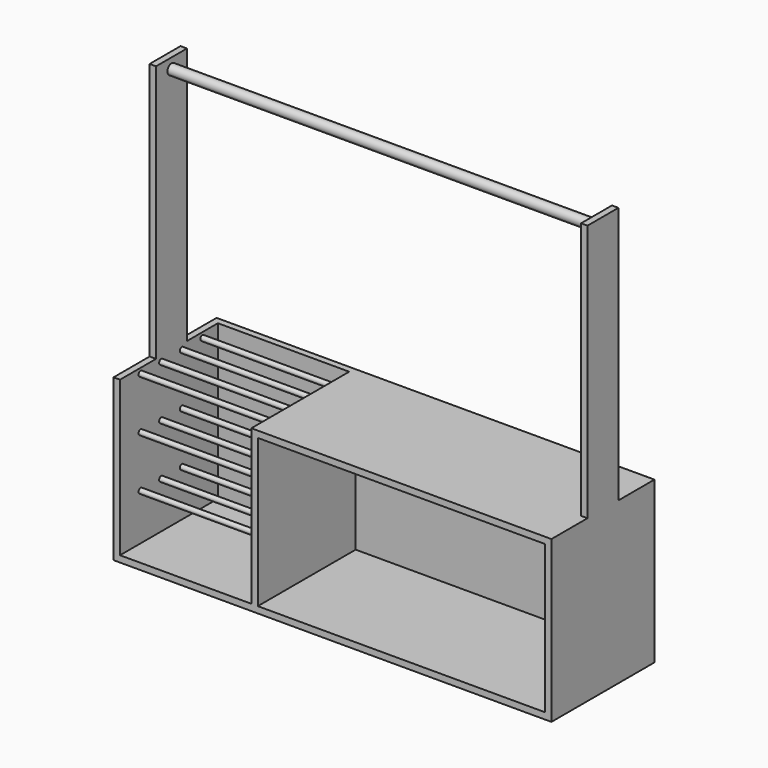
from build123d import *

# Parameters (mm, degrees)
F0_W      = 1700
F0_H      = 500
F1_DEPTH  = 25
F2_W      = 25
F2_H      = 500
F3_DEPTH  = 600
F6_W      = 1650
F6_H      = 25
F7_DEPTH  = 600
F8_W      = 25
F8_H      = 475
F9_DEPTH  = 600
F10_W     = 1165
F10_H     = 500
F11_DEPTH = 25
F12_R     = 10
F13_DEPTH = 510
F14_W     = 25
F14_H     = 150
F15_DEPTH = 1000
F16_W     = 25
F16_H     = 150
F17_DEPTH = 1000
F18_R     = 20
F19_DEPTH = 1650


with BuildPart() as f1:
    # F0 (on Top) → F1 (new body)
    with BuildSketch(Plane.XY):
        with Locations((850, 250)):
            Rectangle(F0_W, F0_H)
    extrude(amount=F1_DEPTH)

    # F2 (on face) → F3 (join)
    with BuildSketch(Plane.XY.offset(25)):
        with Locations((12.5, 250)):
            Rectangle(F2_W, F2_H)
    extrude(amount=F3_DEPTH)

    # F5: F1 across plane


with BuildPart() as f1_1:
    add(f1.part)
    add(f1.part.mirror(Plane.YZ.offset(850)))

    # F6 (on face) → F7 (join, through all)
    with BuildSketch(Plane.XY.offset(25)):
        with Locations((850, 487.5)):
            Rectangle(F6_W, F6_H)
    extrude(amount=F7_DEPTH)

    # F8 (on face) → F9 (join, through all)
    with BuildSketch(Plane.XY.offset(25)):
        with Locations((547.5, 237.5)):
            Rectangle(F8_W, F8_H)
    extrude(amount=F9_DEPTH)

    # F10 (on face) → F11 (join)
    with BuildSketch(Plane.XY.offset(625)):
        with Locations((1117.5, 250)):
            Rectangle(F10_W, F10_H)
    extrude(amount=-F11_DEPTH)

    # F12 (on face) → F13 (join, through all)
    with BuildSketch(Plane.YZ.offset(25)):
        with Locations((100, 605)):
            Circle(F12_R)
        with Locations((100, 205)):
            Circle(F12_R)
        with Locations((100, 405)):
            Circle(F12_R)
        with Locations((200, 605)):
            Circle(F12_R)
        with Locations((200, 405)):
            Circle(F12_R)
        with Locations((200, 205)):
            Circle(F12_R)
        with Locations((300, 605)):
            Circle(F12_R)
        with Locations((300, 405)):
            Circle(F12_R)
        with Locations((300, 205)):
            Circle(F12_R)
        with Locations((400, 605)):
            Circle(F12_R)
        with Locations((400, 405)):
            Circle(F12_R)
        with Locations((400, 205)):
            Circle(F12_R)
    extrude(amount=F13_DEPTH)

    # F14 (on face) → F15 (join)
    with BuildSketch(Plane.XY.offset(625)):
        with Locations((12.5, 250)):
            Rectangle(F14_W, F14_H)
    extrude(amount=F15_DEPTH)

    # F16 (on face) → F17 (join)
    with BuildSketch(Plane.XY.offset(625)):
        with Locations((1687.5, 250)):
            Rectangle(F16_W, F16_H)
    extrude(amount=F17_DEPTH)

    # F18 (on face) → F19 (join, through all)
    with BuildSketch(Plane.YZ.offset(25)):
        with Locations((250, 1585)):
            Circle(F18_R)
    extrude(amount=F19_DEPTH)


solid = f1_1.part
